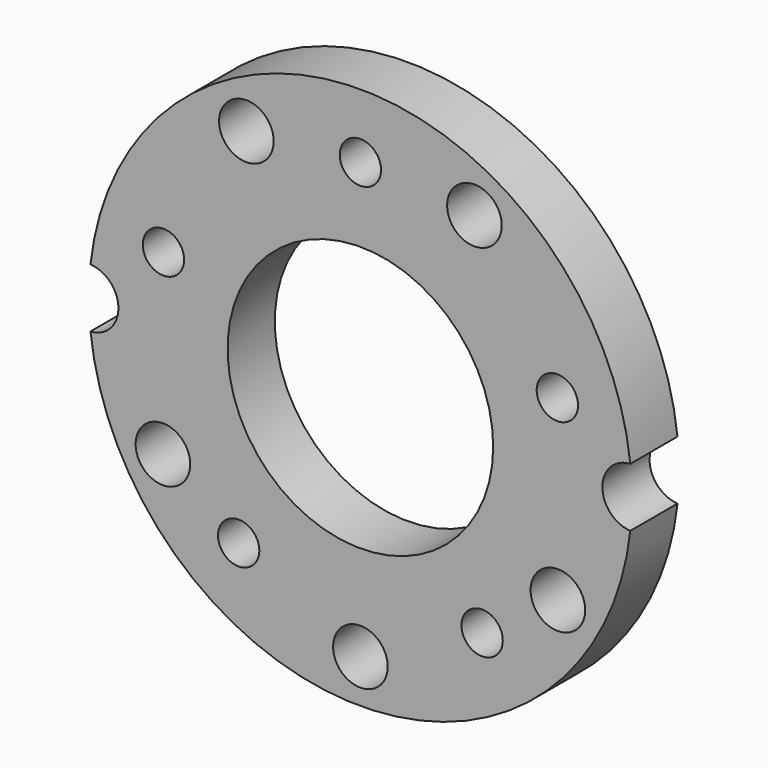
from build123d import *

# Parameters (mm, degrees)
F0_R     = 18.4
F0_R_2   = 1.4
F0_R_3   = 9
F1_DEPTH = 4
F2_R     = 1.85
F3_DEPTH = 25
F5_DEPTH = 25


with BuildPart() as f1:
    # F0 (on Front) → F1 (new body)
    with BuildSketch(Plane.XZ):
        Circle(F0_R)
        with Locations((-8.25, -11.3551508439)):
            Circle(F0_R_2, mode=Mode.SUBTRACT)
        with Locations((8.25, -11.3551508439)):
            Circle(F0_R_2, mode=Mode.SUBTRACT)
        with Locations((-13.3487804072, 4.337281675)):
            Circle(F0_R_2, mode=Mode.SUBTRACT)
        Circle(F0_R_3, mode=Mode.SUBTRACT)
        with Locations((13.3487804072, 4.337281675)):
            Circle(F0_R_2, mode=Mode.SUBTRACT)
        with Locations((0, 14.0357383378)):
            Circle(F0_R_2, mode=Mode.SUBTRACT)
    extrude(amount=-F1_DEPTH)

    # F2 (on face) → F3 (cut)
    with BuildSketch(Plane(origin=(0, 4, 0), x_dir=(-1, 0, 0), z_dir=(0, 1, 0))):
        with Locations((0, -15.4548132206)):
            Circle(F2_R)
        with Locations((13.3842608598, -7.7274066103)):
            Circle(F2_R)
        with Locations((-13.3842608598, -7.7274066103)):
            Circle(F2_R)
        with Locations((-7.7274066103, 13.3842608598)):
            Circle(F2_R)
        with Locations((7.7274066103, 13.3842608598)):
            Circle(F2_R)
    extrude(amount=-F3_DEPTH, mode=Mode.SUBTRACT)

    # F4 (on face) → F5 (cut)
    with BuildSketch(Plane.XZ):
        with BuildLine():
            ThreePointArc((-18.2913043478, -1.9970441295), (-16.9478651398, -1.3752470134), (-16.4, 0))
            ThreePointArc((-16.4, 0), (-16.9478651398, 1.3752470134), (-18.2913043478, 1.9970441295))
            ThreePointArc((-18.2913043478, 1.9970441295), (-18.4, 0), (-18.2913043478, -1.9970441295))
        make_face()
        with BuildLine():
            ThreePointArc((18.4, 0), (18.3728059915, 1), (18.2913043478, 1.9970441295))
            ThreePointArc((18.2913043478, 1.9970441295), (16.4, 0), (18.2913043478, -1.9970441295))
            ThreePointArc((18.2913043478, -1.9970441295), (18.3728059915, -1), (18.4, 0))
        make_face()
    extrude(amount=-F5_DEPTH, mode=Mode.SUBTRACT)


solid = f1.part
